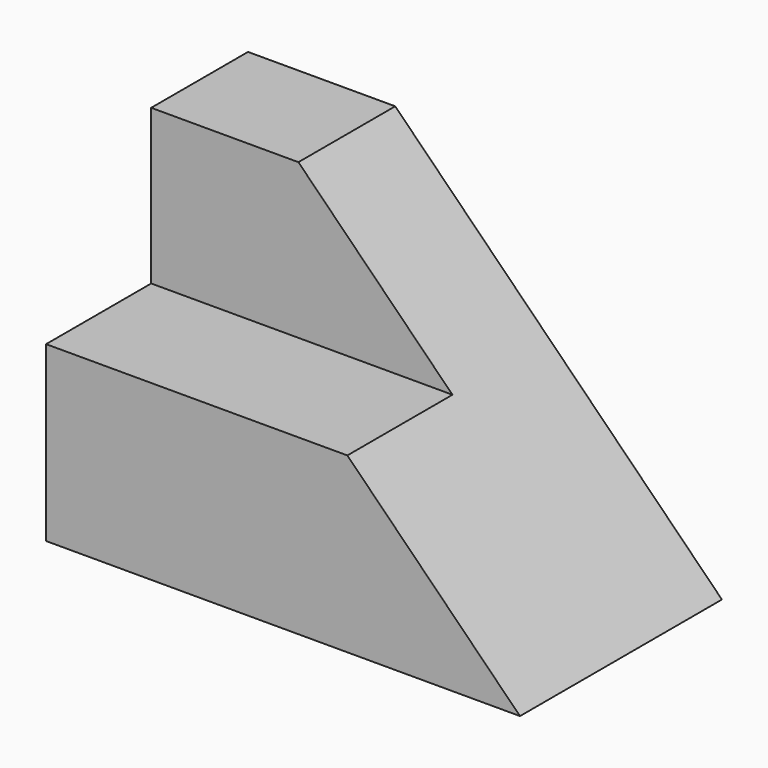
from build123d import *

# Parameters (mm, degrees)
F0_W     = 156.905822
F0_H     = 108.593594
F1_DEPTH = 83.566
F3_DEPTH = 83.567
F4_W     = 43.500216
F4_H     = 51.205804
F5_DEPTH = 156.906822


with BuildPart() as f1:
    # F0 (on Front) → F1 (new body)
    with BuildSketch(Plane.XZ):
        with Locations((15.949223, -22.768164)):
            Rectangle(F0_W, F0_H)
    extrude(amount=F1_DEPTH)

    # F2 (on face) → F3 (cut, through all)
    with BuildSketch(Plane.XZ.offset(83.566)):
        Polygon((94.402134, 31.528633), (-13.758647, 31.528633), (94.402134, -77.064961), align=None)
    extrude(amount=-F3_DEPTH, mode=Mode.SUBTRACT)

    # F4 (on face) → F5 (cut, through all)
    with BuildSketch(Plane(origin=(-62.503688, 0, 0), x_dir=(0, -1, 0), z_dir=(-1, 0, 0))):
        with Locations((61.815892, 5.925731)):
            Rectangle(F4_W, F4_H)
    extrude(amount=-F5_DEPTH, mode=Mode.SUBTRACT)


solid = f1.part
